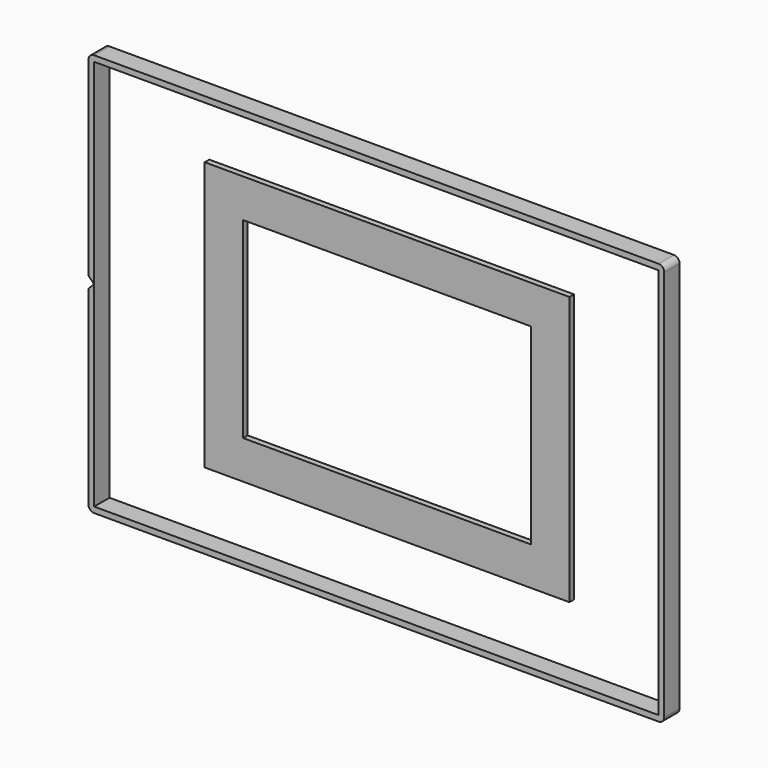
from build123d import *

# Parameters (mm, degrees)
F0_W     = 294
F0_H     = 204
F1_DEPTH = 10
F2_DEPTH = 3


with BuildPart() as f1:
    # F0 (on Front) → F1 (new body)
    with BuildSketch(Plane.XZ):
        with BuildLine():
            Line((147, 105), (-147, 105))
            ThreePointArc((-147, 105), (-149.12132, 104.12132), (-150, 102))
            Line((-150, 102), (-150, 3))
            Line((-150, 3), (-147.424775, 0.424775))
            Line((-147.424775, 0.424775), (-147.424775, -0.424775))
            Line((-147.424775, -0.424775), (-150, -3))
            Line((-150, -3), (-150, -102))
            ThreePointArc((-150, -102), (-149.12132, -104.12132), (-147, -105))
            Line((-147, -105), (147, -105))
            ThreePointArc((147, -105), (149.12132, -104.12132), (150, -102))
            Line((150, -102), (150, 102))
            ThreePointArc((150, 102), (149.12132, 104.12132), (147, 105))
        make_face()
        Rectangle(F0_W, F0_H, mode=Mode.SUBTRACT)
    extrude(amount=F1_DEPTH)


with BuildPart() as f2:
    # F0 (on Front) → F2 (new body)
    with BuildSketch(Plane.XZ):
        Polygon((-75, 50), (-95, 70), (-95, -70), (-75, -50), align=None)
        Polygon((95, 70), (-95, 70), (-75, 50), (75, 50), align=None)
        Polygon((95, -70), (95, 70), (75, 50), (75, -50), align=None)
        Polygon((-75, -50), (-95, -70), (95, -70), (75, -50), align=None)
    extrude(amount=F2_DEPTH)


solid = Compound([f1.part, f2.part])
